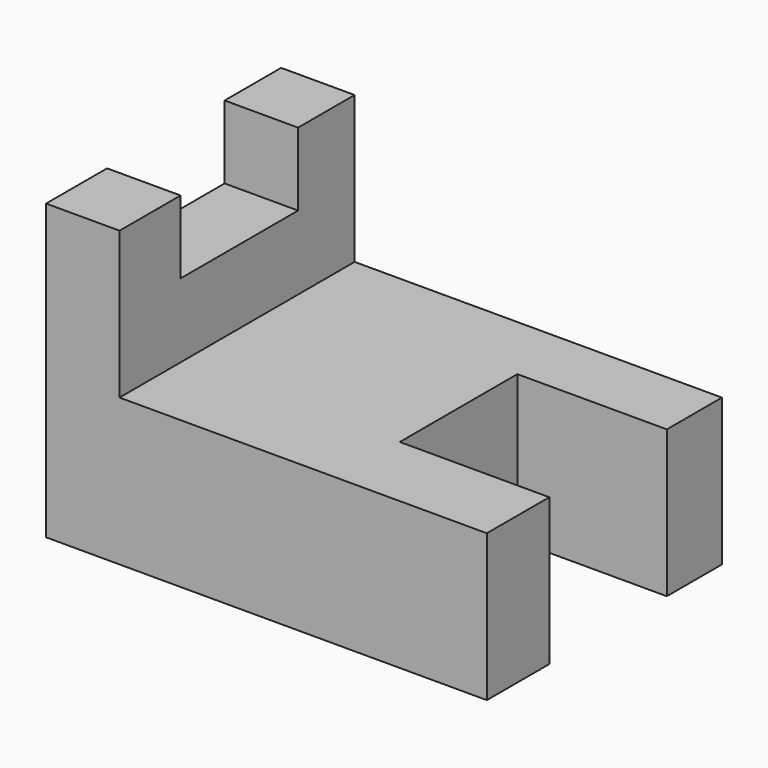
from build123d import *

# Parameters (mm, degrees)
F1_DEPTH = 25.4
F2_W     = 12.7
F2_H     = 6.35
F3_DEPTH = 25.4
F5_DEPTH = 25.4


with BuildPart() as f1:
    # F0 (on Front) → F1 (new body)
    with BuildSketch(Plane.XZ):
        Polygon((0, 25.4), (0, 0), (38.1, 0), (38.1, 12.7), (6.35, 12.7), (6.35, 25.4), align=None)
    extrude(amount=F1_DEPTH)

    # F2 (on Right) → F3 (cut)
    with BuildSketch(Plane.YZ):
        with Locations((-12.458322, 22.26291)):
            Rectangle(F2_W, F2_H)
    extrude(amount=F3_DEPTH, mode=Mode.SUBTRACT)

    # F4 (on Top) → F5 (cut)
    with BuildSketch(Plane.XY):
        Polygon((47.86668, -5.951941), (37.877283, -5.951941), (25.177283, -5.951941), (25.177283, -18.651941), (37.877283, -18.651941), (47.86668, -18.509777), align=None)
    extrude(amount=F5_DEPTH, mode=Mode.SUBTRACT)


solid = f1.part
